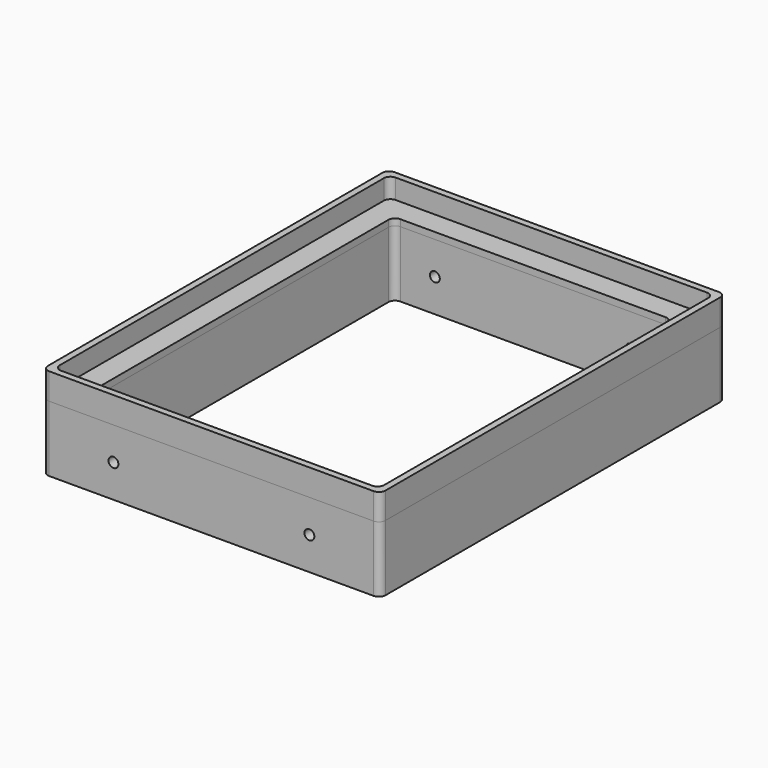
from build123d import *

# Parameters (mm, degrees)
F1_DEPTH = 6
F3_DEPTH = 2
F4_DEPTH = 20
F5_R     = 1.5
F6_DEPTH = 135


with BuildPart() as f1:
    # F0 (on Top) → F1 (new body)
    with BuildSketch(Plane.XY):
        with BuildLine():
            Line((48.044474, 63.263562), (-50.455526, 63.263562))
            ThreePointArc((-50.455526, 63.263562), (-51.869739, 62.677775), (-52.455526, 61.263562))
            Line((-52.455526, 61.263562), (-52.455526, -65.736438))
            ThreePointArc((-52.455526, -65.736438), (-51.869739, -67.150652), (-50.455526, -67.736438))
            Line((-50.455526, -67.736438), (48.044474, -67.736438))
            ThreePointArc((48.044474, -67.736438), (49.458688, -67.150652), (50.044474, -65.736438))
            Line((50.044474, -65.736438), (50.044474, 61.263562))
            ThreePointArc((50.044474, 61.263562), (49.458688, 62.677775), (48.044474, 63.263562))
        make_face()
        with BuildLine():
            ThreePointArc((-50.455526, 59.263562), (-49.869739, 60.677775), (-48.455526, 61.263562))
            Line((-48.455526, 61.263562), (46.044474, 61.263562))
            ThreePointArc((46.044474, 61.263562), (47.458688, 60.677775), (48.044474, 59.263562))
            Line((48.044474, 59.263562), (48.044474, -63.736438))
            ThreePointArc((48.044474, -63.736438), (47.458688, -65.150652), (46.044474, -65.736438))
            Line((46.044474, -65.736438), (-48.455526, -65.736438))
            ThreePointArc((-48.455526, -65.736438), (-49.869739, -65.150652), (-50.455526, -63.736438))
            Line((-50.455526, -63.736438), (-50.455526, 59.263562))
        make_face(mode=Mode.SUBTRACT)
    extrude(amount=F1_DEPTH)

    # F2 (on Top) → F3 (join)
    with BuildSketch(Plane.XY):
        with BuildLine():
            Line((48.044474, 63.263562), (-50.455526, 63.263562))
            ThreePointArc((-50.455526, 63.263562), (-51.869739, 62.677775), (-52.455526, 61.263562))
            Line((-52.455526, 61.263562), (-52.455526, -65.736438))
            ThreePointArc((-52.455526, -65.736438), (-51.869739, -67.150652), (-50.455526, -67.736438))
            Line((-50.455526, -67.736438), (48.044474, -67.736438))
            ThreePointArc((48.044474, -67.736438), (49.458688, -67.150652), (50.044474, -65.736438))
            Line((50.044474, -65.736438), (50.044474, 61.263562))
            ThreePointArc((50.044474, 61.263562), (49.458688, 62.677775), (48.044474, 63.263562))
        make_face()
        with BuildLine():
            ThreePointArc((-43.455526, 52.263562), (-42.869739, 53.677775), (-41.455526, 54.263562))
            Line((-41.455526, 54.263562), (39.044474, 54.263562))
            ThreePointArc((39.044474, 54.263562), (40.458688, 53.677775), (41.044474, 52.263562))
            Line((41.044474, 52.263562), (41.044474, -56.736438))
            ThreePointArc((41.044474, -56.736438), (40.458688, -58.150652), (39.044474, -58.736438))
            Line((39.044474, -58.736438), (-41.455526, -58.736438))
            ThreePointArc((-41.455526, -58.736438), (-42.869739, -58.150652), (-43.455526, -56.736438))
            Line((-43.455526, -56.736438), (-43.455526, 52.263562))
        make_face(mode=Mode.SUBTRACT)
    extrude(amount=-F3_DEPTH)


with BuildPart() as f4:
    # F3_face (on face) → F4 (new body)
    with BuildSketch(Plane(origin=(-1.205526, -2.236438, -2), x_dir=(1, 0, 0), z_dir=(0, 0, -1))):
        with BuildLine():
            Line((-49.25, -65.5), (49.25, -65.5))
            ThreePointArc((49.25, -65.5), (50.664214, -64.914214), (51.25, -63.5))
            Line((51.25, -63.5), (51.25, 63.5))
            ThreePointArc((51.25, 63.5), (50.664214, 64.914214), (49.25, 65.5))
            Line((49.25, 65.5), (-49.25, 65.5))
            ThreePointArc((-49.25, 65.5), (-50.664214, 64.914214), (-51.25, 63.5))
            Line((-51.25, 63.5), (-51.25, -63.5))
            ThreePointArc((-51.25, -63.5), (-50.664214, -64.914214), (-49.25, -65.5))
        make_face()
        with BuildLine():
            Line((-42.25, -54.5), (-42.25, 54.5))
            ThreePointArc((-42.25, 54.5), (-41.664214, 55.914214), (-40.25, 56.5))
            Line((-40.25, 56.5), (40.25, 56.5))
            ThreePointArc((40.25, 56.5), (41.664214, 55.914214), (42.25, 54.5))
            Line((42.25, 54.5), (42.25, -54.5))
            ThreePointArc((42.25, -54.5), (41.664214, -55.914214), (40.25, -56.5))
            Line((40.25, -56.5), (-40.25, -56.5))
            ThreePointArc((-40.25, -56.5), (-41.664214, -55.914214), (-42.25, -54.5))
        make_face(mode=Mode.SUBTRACT)
    extrude(amount=F4_DEPTH)

    # F5 (on face) → F6 (cut)
    with BuildSketch(Plane.XZ.offset(67.736438)):
        with Locations((28.544474, -12)):
            Circle(F5_R)
        with Locations((-30.955526, -12)):
            Circle(F5_R)
    extrude(amount=-F6_DEPTH, mode=Mode.SUBTRACT)


solid = Compound([f1.part, f4.part])
